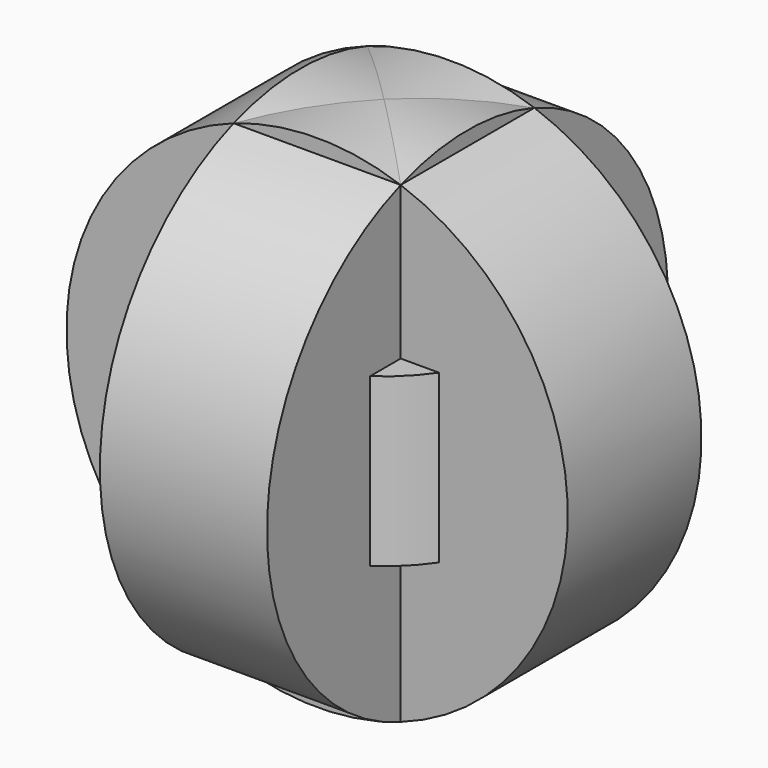
from build123d import *

# Parameters (mm, degrees)
F2_R     = 38.1
F3_DEPTH = 12.7
F1_R     = 38.1
F4_DEPTH = 12.7
F0_R     = 22.446656
F5_DEPTH = 12.7


with BuildPart() as f3:
    # F2 (on Right) → F3 (new body, symmetric)
    with BuildSketch(Plane.YZ):
        Circle(F2_R)
    extrude(amount=F3_DEPTH, both=True)

    # F1 (on Front) → F4 (join, symmetric)
    with BuildSketch(Plane.XZ):
        Circle(F1_R)
    extrude(amount=F4_DEPTH, both=True)

    # F0 (on Top) → F5 (join, symmetric)
    with BuildSketch(Plane.XY):
        Circle(F0_R)
    extrude(amount=F5_DEPTH, both=True)


solid = f3.part
